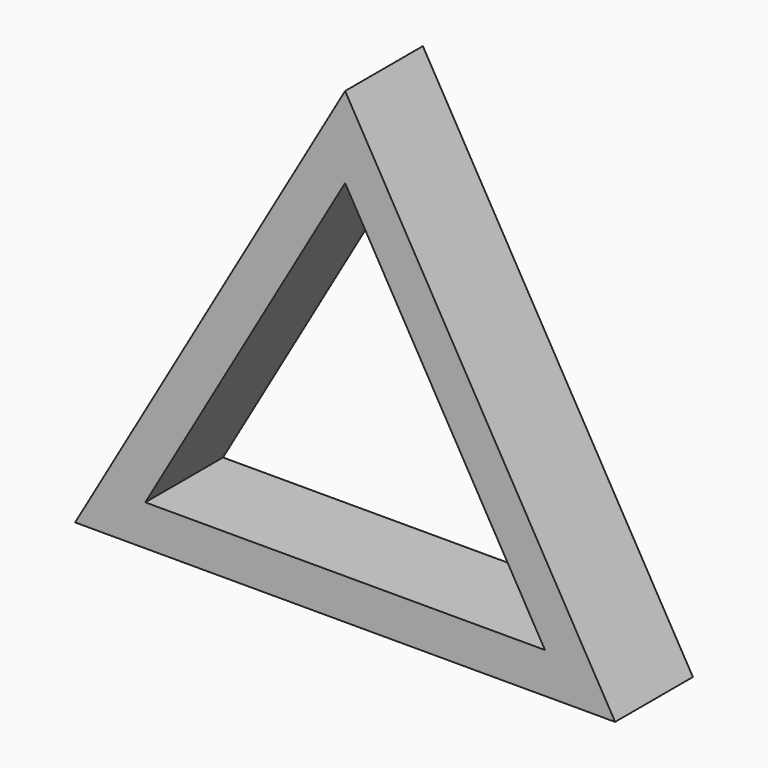
from build123d import *

# Parameters (mm, degrees)
F1_DEPTH = 36


with BuildPart() as f1:
    # F0 (on Front) → F1 (new body)
    with BuildSketch(Plane.XZ):
        Polygon((-100, 0), (0, 0), (0, 15), (-74.019238, 15), align=None)
        Polygon((0, 15), (0, 0), (100, 0), (0, 173.205081), (0, 143.205081), (74.019238, 15), align=None)
        Polygon((0, 173.205081), (-100, 0), (-74.019238, 15), (0, 143.205081), align=None)
    extrude(amount=F1_DEPTH)


solid = f1.part
